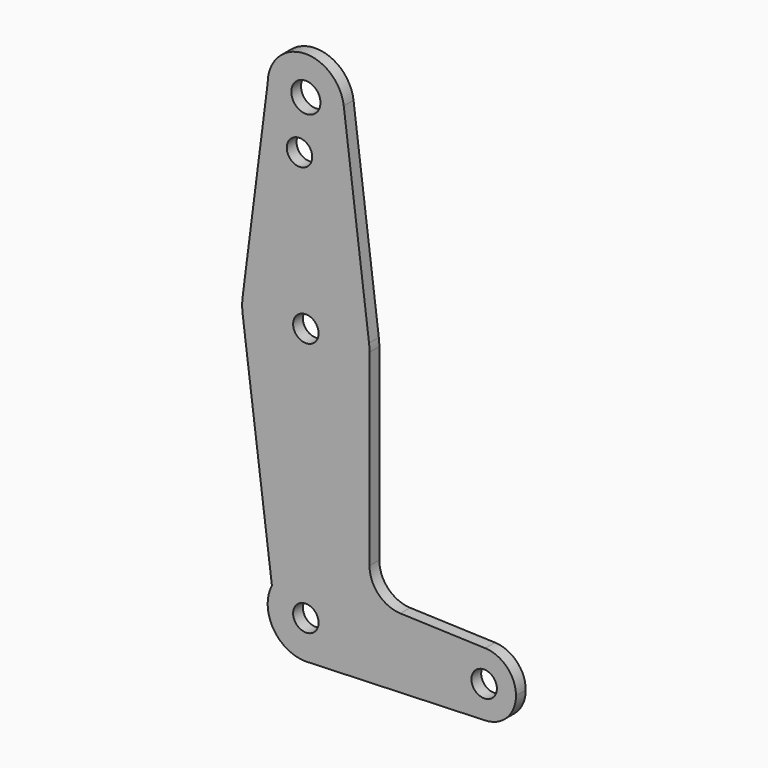
from build123d import *

# Parameters (mm, degrees)
F0_R     = 3.639412
F0_R_2   = 3.175
F1_DEPTH = 3.048


with BuildPart() as f1:
    # F0 (on Front) → F1 (new body)
    with BuildSketch(Plane.XZ):
        with BuildLine():
            ThreePointArc((9.450293, 115.490625), (9.506305, 114.896483), (9.525, 114.3))
            ThreePointArc((9.525, 114.3), (6.300195, 107.15625), (-1.190625, 104.849707))
            ThreePointArc((-1.190625, 104.849707), (-7.14375, 107.999805), (-9.525, 114.3))
            Line((-9.525, 114.3), (-15.747457, 65.508289))
            ThreePointArc((-15.747457, 65.508289), (0.012053, 79.374995), (15.750488, 65.484375))
            Line((15.750488, 65.484375), (9.450293, 115.490625))
        make_face()
        with BuildLine():
            ThreePointArc((1.5875, 101.699609), (-3.96875, 99.599544), (-1.190625, 104.849707))
            ThreePointArc((-1.190625, 104.849707), (0.79375, 103.799675), (1.5875, 101.699609))
        make_face(mode=Mode.SUBTRACT)
        with BuildLine():
            ThreePointArc((-1.190625, 104.849707), (6.300195, 107.15625), (9.525, 114.3))
            ThreePointArc((9.525, 114.3), (9.506305, 114.896483), (9.450293, 115.490625))
            ThreePointArc((9.450293, 115.490625), (-0.596483, 123.806305), (-9.525, 114.3))
            ThreePointArc((-9.525, 114.3), (-7.14375, 107.999805), (-1.190625, 104.849707))
        make_face()
        with Locations((0, 114.3)):
            Circle(F0_R, mode=Mode.SUBTRACT)
        with BuildLine():
            ThreePointArc((15.875, 63.5), (15.843841, 64.494139), (15.750488, 65.484375))
            ThreePointArc((15.750488, 65.484375), (0.012053, 79.374995), (-15.747457, 65.508289))
            ThreePointArc((-15.747457, 65.508289), (-15.875, 63.5), (-15.747457, 61.491711))
            ThreePointArc((-15.747457, 61.491711), (1.006168, 47.656918), (15.875, 63.5))
        make_face()
        with Locations((0, 63.5)):
            Circle(F0_R_2, mode=Mode.SUBTRACT)
        with BuildLine():
            Line((15.875, 16.632032), (15.875, 63.5))
            ThreePointArc((15.875, 63.5), (1.006168, 47.656918), (-15.747457, 61.491711))
            Line((-15.747457, 61.491711), (-8.462807, 4.371101))
            ThreePointArc((-8.462807, 4.371101), (2.249154, 9.255643), (9.525, 0))
            ThreePointArc((9.525, 0), (6.970557, -6.491299), (0.677344, -9.500886))
            Line((0.677344, -9.500886), (44.732405, -7.932475))
            ThreePointArc((44.732405, -7.932475), (36.5125, 0), (44.732405, 7.932475))
            Line((44.732405, 7.932475), (23.542343, 8.686865))
            ThreePointArc((23.542343, 8.686865), (18.104429, 11.111302), (15.875, 16.632032))
        make_face()
        with BuildLine():
            ThreePointArc((9.525, 0), (2.249154, 9.255643), (-8.462807, 4.371101))
            ThreePointArc((-8.462807, 4.371101), (-8.13512, -4.954336), (0, -9.525))
            Line((0, -9.525), (0.677344, -9.500886))
            ThreePointArc((0.677344, -9.500886), (6.970557, -6.491299), (9.525, 0))
        make_face()
        Circle(F0_R_2, mode=Mode.SUBTRACT)
        with BuildLine():
            ThreePointArc((52.3875, 0), (50.161633, 5.51191), (44.732405, 7.932475))
            ThreePointArc((44.732405, 7.932475), (36.5125, 0), (44.732405, -7.932475))
            ThreePointArc((44.732405, -7.932475), (50.161633, -5.51191), (52.3875, 0))
        make_face()
        with Locations((44.45, 0)):
            Circle(F0_R_2, mode=Mode.SUBTRACT)
    extrude(amount=F1_DEPTH)


solid = f1.part
